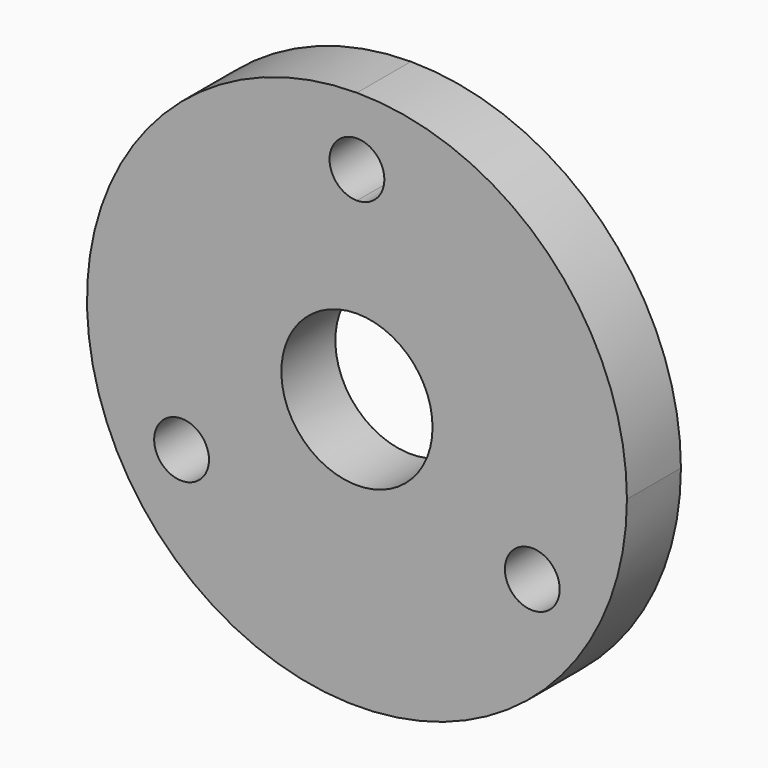
from build123d import *

# Parameters (mm, degrees)
F0_R     = 10.15
F1_DEPTH = 25


with BuildPart() as f1:
    # F0 (on Front) → F1 (new body)
    with BuildSketch(Plane.XZ):
        with BuildLine():
            ThreePointArc((0, 100), (-70.710678, -70.710678), (100, 0))
            ThreePointArc((100, 0), (70.710678, 70.710678), (0, 100))
        make_face()
        with Locations((-64.951905, -37.5)):
            Circle(F0_R, mode=Mode.SUBTRACT)
        with Locations((64.951905, -37.5)):
            Circle(F0_R, mode=Mode.SUBTRACT)
        with BuildLine():
            ThreePointArc((28, 0), (-19.79899, -19.79899), (0, 28))
            ThreePointArc((0, 28), (19.79899, 19.79899), (28, 0))
        make_face(mode=Mode.SUBTRACT)
        with BuildLine():
            ThreePointArc((0, 64.85), (-10.15, 75), (0, 85.15))
            ThreePointArc((0, 85.15), (7.177134, 82.177134), (10.15, 75))
            ThreePointArc((10.15, 75), (7.177134, 67.822866), (0, 64.85))
        make_face(mode=Mode.SUBTRACT)
    extrude(amount=F1_DEPTH)


solid = f1.part
